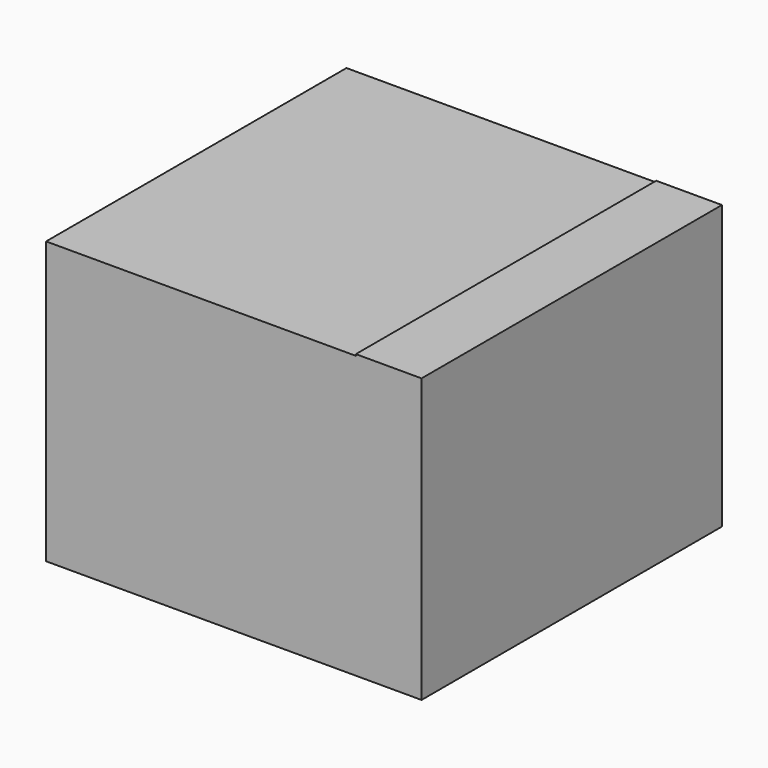
from build123d import *

# Parameters (mm, degrees)
F0_W     = 26
F0_H     = 23
F0_H_2   = 7
F1_DEPTH = 20


with BuildPart() as f1:
    # F0 (on Front) → F1 (new body, symmetric)
    with BuildSketch(Plane.XZ):
        Polygon((-25.056261, 18.174567), (-32.056261, 18.174567), (-32.056261, -11.825433), (-25.056261, -11.825433), (-25.056261, -4.825433), align=None)
        with Locations((-12.056261, 6.674567)):
            Rectangle(F0_W, F0_H)
        with Locations((-12.056261, -8.325433)):
            Rectangle(F0_W, F0_H_2)
        Polygon((0.943739, 18.336729), (0.943739, 18.174567), (0.943739, -4.825433), (0.943739, -11.825433), (7.943739, -11.825433), (7.943739, 18.336729), align=None)
    extrude(amount=F1_DEPTH, both=True)


solid = f1.part
